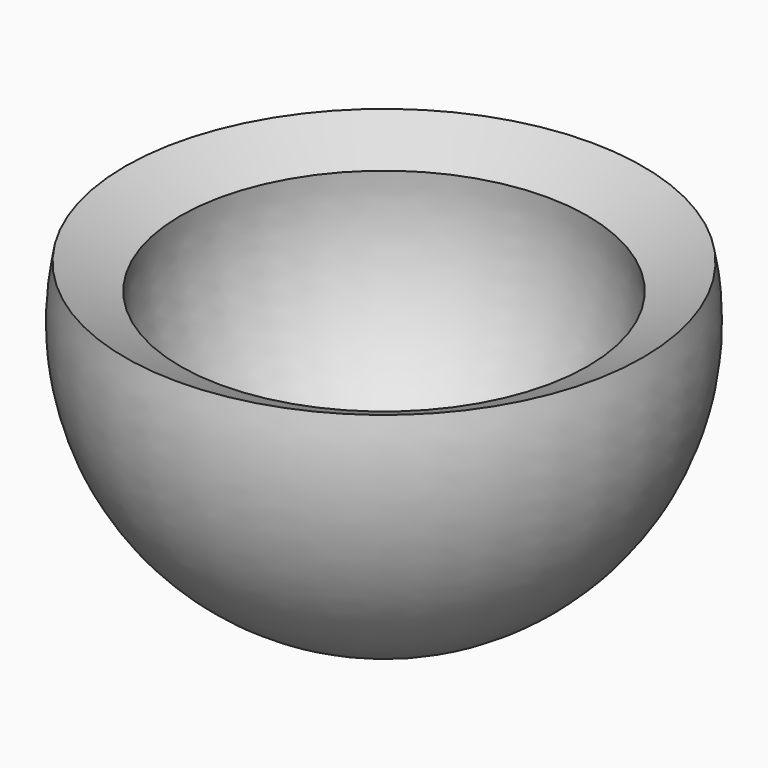
from build123d import *


with BuildPart() as f1:
    # F0 (on Right) → F1 (revolve)
    with BuildSketch(Plane.YZ):
        with BuildLine():
            ThreePointArc((3.471157, 0.448405), (2.628633, -2.310907), (0, -3.5))
            Line((0, -3.5), (0, -4.5))
            ThreePointArc((0, -4.5), (3.481239, -2.851486), (4.411869, 0.886234))
            Line((4.411869, 0.886234), (3.471157, 0.448405))
        make_face()
    revolve(axis=Axis((0, 0, -1.873889), (0, 0, -1)))


solid = f1.part
